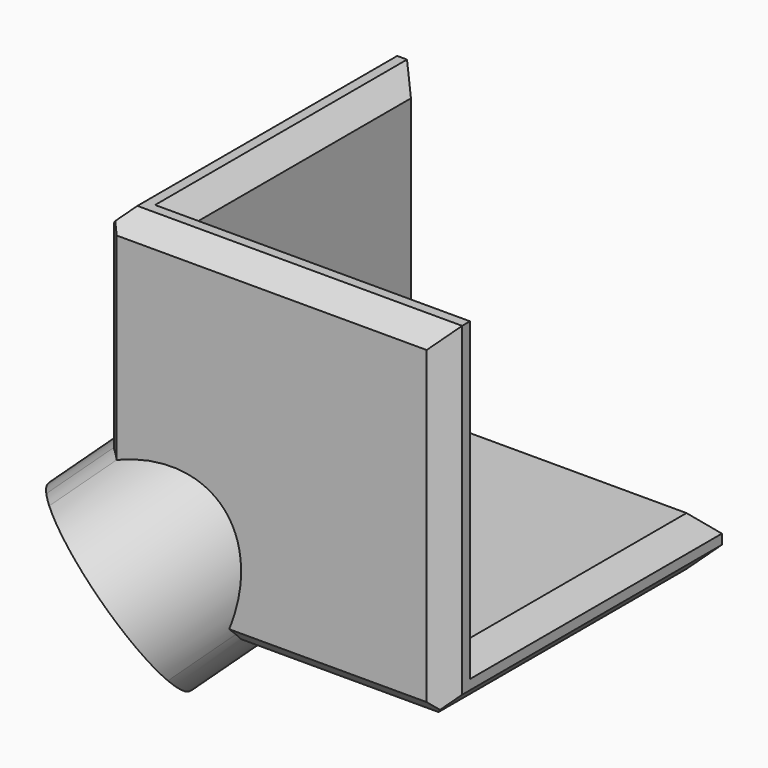
from build123d import *

# Parameters (mm, degrees)
F0_W     = 44.45
F0_H     = 44.45
F1_DEPTH = 44.45
F2_SIZE  = 1.905
F4_DEPTH = 25.4
F5_W     = 38.1
F5_H     = 38.1
F6_DEPTH = 38.1
F7_SIZE  = 2.54


with BuildPart() as f1:
    # F0 (on Top) → F1 (new body)
    with BuildSketch(Plane.XY):
        with Locations((1.98498182, -0.7634516805)):
            Rectangle(F0_W, F0_H)
    extrude(amount=F1_DEPTH)

    # F2
    f2_edges = [f1.edges().sort_by_distance(p)[0] for p in [
        (-20.240018, -22.988452, 22.225),
        (1.984982, -22.988452, 0),
        (-20.240018, -0.763452, 0),
    ]]
    chamfer(f2_edges, length=F2_SIZE)

    # F3 (on face) → F4 (join)
    with BuildSketch(Plane(origin=(-13.1394899535, -13.1394899535, -13.1394899535), x_dir=(0.8164965809, -0.4082482905, -0.4082482905), z_dir=(-0.5773502692, -0.5773502692, -0.5773502692))):
        with BuildLine():
            Line((-8.6963355296, 16.2552900723), (-7.5297660396, 16.9288092814))
            Line((-7.5297660396, 16.9288092814), (-6.3631965496, 17.6023284905))
            Line((-6.3631965496, 17.6023284905), (-12.2885202748, 27.8652902339))
            ThreePointArc((-12.2885202748, 27.8652902339), (-13.4909095429, 27.2538127004), (-14.6216592548, 26.5182518157))
            Line((-14.6216592548, 26.5182518157), (-8.6963355296, 16.2552900723))
        make_face()
        with BuildLine():
            Line((-6.3631965496, 17.6023284905), (-7.1409095429, 16.2552900723))
            Line((-7.1409095429, 16.2552900723), (-8.6963355296, 16.2552900723))
            Line((-8.6963355296, 16.2552900723), (-14.6216592548, 26.5182518157))
            ThreePointArc((-14.6216592548, 26.5182518157), (-12.8978392219, 4.935053296), (5.5590904571, 16.2552900723))
            ThreePointArc((5.5590904571, 16.2552900723), (-0.2157617573, 26.9010558103), (-12.2885202748, 27.8652902339))
            Line((-12.2885202748, 27.8652902339), (-6.3631965496, 17.6023284905))
        make_face()
        Polygon((-7.1409095429, 16.2552900723), (-7.5297660396, 16.9288092814), (-8.6963355296, 16.2552900723), align=None)
        with BuildLine():
            Line((-6.3631965496, 17.6023284905), (-7.1409095429, 16.2552900723))
            Line((-7.1409095429, 16.2552900723), (-8.6963355296, 16.2552900723))
            Line((-8.6963355296, 16.2552900723), (-14.6216592548, 26.5182518157))
            ThreePointArc((-14.6216592548, 26.5182518157), (-12.8978392219, 4.935053296), (5.5590904571, 16.2552900723))
            ThreePointArc((5.5590904571, 16.2552900723), (-0.2157617573, 26.9010558103), (-12.2885202748, 27.8652902339))
            Line((-12.2885202748, 27.8652902339), (-6.3631965496, 17.6023284905))
        make_face()
        with BuildLine():
            Line((-6.3631965496, 17.6023284905), (-7.1409095429, 16.2552900723))
            Line((-7.1409095429, 16.2552900723), (-8.6963355296, 16.2552900723))
            Line((-8.6963355296, 16.2552900723), (-14.6216592548, 26.5182518157))
            ThreePointArc((-14.6216592548, 26.5182518157), (-12.8978392219, 4.935053296), (5.5590904571, 16.2552900723))
            ThreePointArc((5.5590904571, 16.2552900723), (-0.2157617573, 26.9010558103), (-12.2885202748, 27.8652902339))
            Line((-12.2885202748, 27.8652902339), (-6.3631965496, 17.6023284905))
        make_face()
        with BuildLine():
            Line((-6.3631965496, 17.6023284905), (-7.1409095429, 16.2552900723))
            Line((-7.1409095429, 16.2552900723), (-8.6963355296, 16.2552900723))
            Line((-8.6963355296, 16.2552900723), (-14.6216592548, 26.5182518157))
            ThreePointArc((-14.6216592548, 26.5182518157), (-12.8978392219, 4.935053296), (5.5590904571, 16.2552900723))
            ThreePointArc((5.5590904571, 16.2552900723), (-0.2157617573, 26.9010558103), (-12.2885202748, 27.8652902339))
            Line((-12.2885202748, 27.8652902339), (-6.3631965496, 17.6023284905))
        make_face()
        with BuildLine():
            Line((-6.3631965496, 17.6023284905), (-7.1409095429, 16.2552900723))
            Line((-7.1409095429, 16.2552900723), (-8.6963355296, 16.2552900723))
            Line((-8.6963355296, 16.2552900723), (-14.6216592548, 26.5182518157))
            ThreePointArc((-14.6216592548, 26.5182518157), (-12.8978392219, 4.935053296), (5.5590904571, 16.2552900723))
            ThreePointArc((5.5590904571, 16.2552900723), (-0.2157617573, 26.9010558103), (-12.2885202748, 27.8652902339))
            Line((-12.2885202748, 27.8652902339), (-6.3631965496, 17.6023284905))
        make_face()
        Polygon((-6.3631965496, 17.6023284905), (-7.5297660396, 16.9288092814), (-7.1409095429, 16.2552900723), align=None)
    extrude(amount=-F4_DEPTH)

    # F5 (on face) → F6 (cut)
    with BuildSketch(Plane.YZ.offset(24.20998182)):
        with Locations((2.4115483195, 25.4)):
            Rectangle(F5_W, F5_H)
    extrude(amount=-F6_DEPTH, mode=Mode.SUBTRACT)

    # F7 (call 1 of 4: OpenCascade refuses the feature's edges together)
    f7_edges = [f1.edges().sort_by_distance(p)[0] for p in [
        (-20.240018, 21.461548, 23.1775),
        (-20.240018, 0.189048, 44.45),
    ]]
    chamfer(f7_edges, length=F7_SIZE)

    # F7#2 (call 2 of 4)
    f7_2_edges = [f1.edges().sort_by_distance(p)[0] for p in [
        (2.937482, 21.461548, 0),
        (24.209982, 0.189048, 0),
    ]]
    chamfer(f7_2_edges, length=F7_SIZE)

    # F7#3 (call 3 of 4)
    f7_3_edges = [f1.edges().sort_by_distance(p)[0] for p in [
        (2.937482, -22.988452, 44.45),
        (24.209982, -22.988452, 23.1775),
    ]]
    chamfer(f7_3_edges, length=F7_SIZE)

    # F7#4 (call 4 of 4)
    f7_4_edges = [f1.edges().sort_by_distance(p)[0] for p in [
        (5.159982, 21.461548, 6.35),
        (24.209982, 2.411548, 6.35),
        (24.209982, -16.638452, 25.4),
        (5.159982, -16.638452, 44.45),
        (-13.890018, 2.411548, 44.45),
        (-13.890018, 21.461548, 25.4),
    ]]
    chamfer(f7_4_edges, length=F7_SIZE)


solid = f1.part
